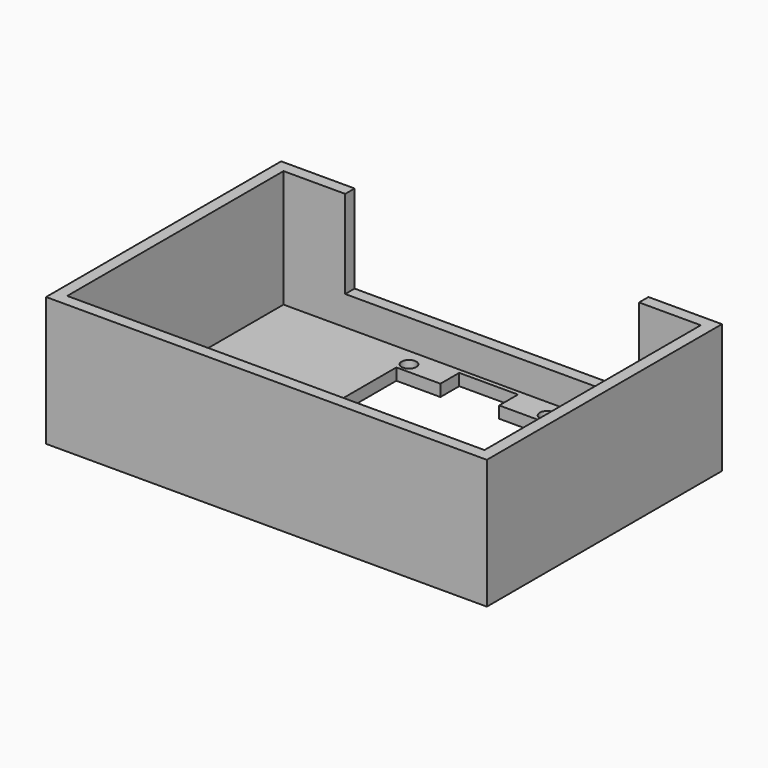
from build123d import *

# Parameters (mm, degrees)
SKETCH_W      = 75
SKETCH_H      = 50
SKETCH_R      = 3.5
SKETCH_R_2    = 3.75
SKETCH_R_3    = 1.25
PAD_DEPTH     = 2
SKETCH001_W   = 75
SKETCH001_H   = 50
SKETCH001_W_2 = 71
SKETCH001_H_2 = 46
PAD001_DEPTH  = 20
SKETCH002_W   = 50
SKETCH002_H   = 15
POCKET_DEPTH  = 25.001


with BuildPart() as part:
    # Sketch → Pad (new body)
    with BuildSketch(Plane.XY):
        Rectangle(SKETCH_W, SKETCH_H)
        with Locations((0, -15)):
            Circle(SKETCH_R, mode=Mode.SUBTRACT)
        with Locations((25, -15)):
            Circle(SKETCH_R_2, mode=Mode.SUBTRACT)
        with Locations((-25, -15)):
            Circle(SKETCH_R_2, mode=Mode.SUBTRACT)
        with Locations((-11.75, 20)):
            Circle(SKETCH_R_3, mode=Mode.SUBTRACT)
        with Locations((-11.75, -3.8)):
            Circle(SKETCH_R_3, mode=Mode.SUBTRACT)
        with Locations((11.75, -3.8)):
            Circle(SKETCH_R_3, mode=Mode.SUBTRACT)
        with Locations((11.75, 20)):
            Circle(SKETCH_R_3, mode=Mode.SUBTRACT)
        Polygon((-12.5, 18.25), (-12.5, 0.25), (-6.25, 0.25), (-6.25, -4.75), (6.25, -4.75), (6.25, 0.25), (12.5, 0.25), (12.5, 18.25), (5, 18.25), (5, 22.25), (-5, 22.25), (-5, 18.25), align=None, mode=Mode.SUBTRACT)
    extrude(amount=-PAD_DEPTH)

    # Sketch001 → Pad001 (join)
    with BuildSketch(Plane.XY):
        Rectangle(SKETCH001_W, SKETCH001_H)
        Rectangle(SKETCH001_W_2, SKETCH001_H_2, mode=Mode.SUBTRACT)
    extrude(amount=PAD001_DEPTH)

    # Sketch002 → Pocket (cut, through all)
    with BuildSketch(Plane.XZ):
        with Locations((0, 12.5)):
            Rectangle(SKETCH002_W, SKETCH002_H)
    extrude(amount=-POCKET_DEPTH, mode=Mode.SUBTRACT)


solid = part.part
